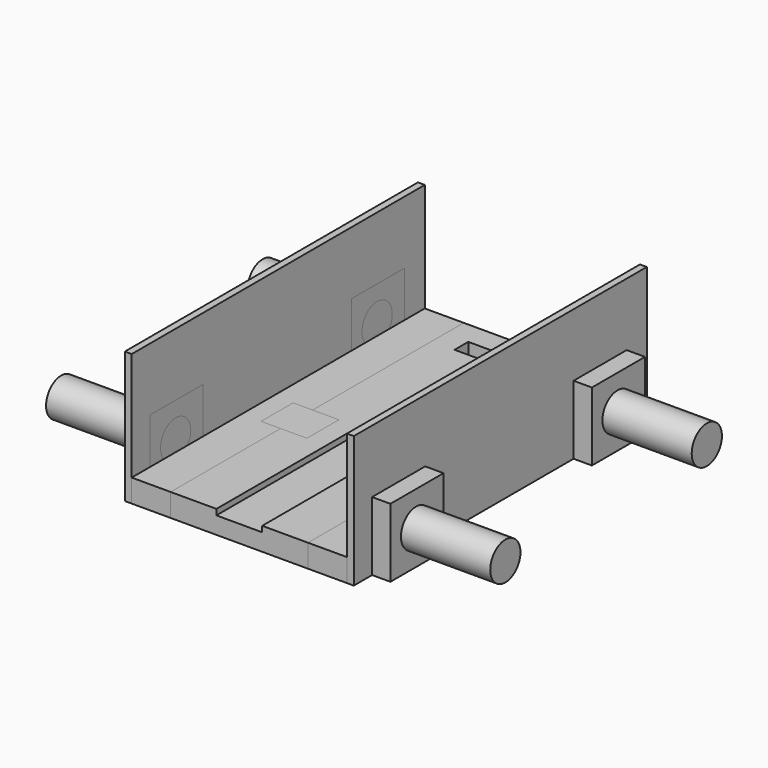
from build123d import *

# Parameters (mm, degrees)
BOX004_W          = 8
BOX004_H          = 1.5
BOX004_DEPTH      = 1.5
BOX001_W          = 4
BOX001_H          = 30
BOX001_DEPTH      = 0.5
BOX_W             = 13.4
BOX_H             = 32
BOX_DEPTH         = 2
BOX005_W          = 4
BOX005_H          = 32
BOX005_DEPTH      = 2
BOX006_W          = 4
BOX006_H          = 32
BOX006_DEPTH      = 2
BOX003_W          = 4
BOX003_H          = 3.5
BOX003_DEPTH      = 1.5
BOX002_W          = 4
BOX002_H          = 3.5
BOX002_DEPTH      = 1.5
BOX007_W          = 0.6
BOX007_H          = 32
BOX007_DEPTH      = 11.5
BOX008_W          = 0.6
BOX008_H          = 32
BOX008_DEPTH      = 11.5
BOX009_W          = 2.2
BOX009_H          = 5.8
BOX009_DEPTH      = 6
BOX010_W          = 2.2
BOX010_H          = 5.8
BOX010_DEPTH      = 6
BOX011_W          = 2.2
BOX011_H          = 5.8
BOX011_DEPTH      = 6
BOX012_W          = 2.2
BOX012_H          = 5.8
BOX012_DEPTH      = 6
CYLINDER_R        = 1.65
CYLINDER_DEPTH    = 10
CYLINDER001_R     = 1.65
CYLINDER001_DEPTH = 10
CYLINDER002_R     = 1.65
CYLINDER002_DEPTH = 10
CYLINDER003_R     = 1.65
CYLINDER003_DEPTH = 10


with BuildPart() as cube004:
    # Box004 → Box004 (new body)
    with BuildSketch(Plane(origin=(-4, 28.5, 0.5), x_dir=(1, 0, 0), z_dir=(0, 0, 1))):
        with Locations((4, 0.75)):
            Rectangle(BOX004_W, BOX004_H)
    extrude(amount=BOX004_DEPTH)


with BuildPart() as cube001:
    # Box001 → Box001 (new body)
    with BuildSketch(Plane(origin=(-2, 0, 1.5), x_dir=(1, 0, 0), z_dir=(0, 0, 1))):
        with Locations((2, 15)):
            Rectangle(BOX001_W, BOX001_H)
    extrude(amount=BOX001_DEPTH)


with BuildPart() as cut001:
    # Box → Box (new body)
    with BuildSketch(Plane(origin=(-6.7, 0, 0), x_dir=(1, 0, 0), z_dir=(0, 0, 1))):
        with Locations((6.7, 16)):
            Rectangle(BOX_W, BOX_H)
    extrude(amount=BOX_DEPTH)

    # Cut: cut Cube001
    add(cube001.part, mode=Mode.SUBTRACT)

    # Cut001: cut Cube004
    add(cube004.part, mode=Mode.SUBTRACT)


with BuildPart() as cube005:
    # Box005 → Box005 (new body)
    with BuildSketch(Plane(origin=(-10, 0, 0), x_dir=(1, 0, 0), z_dir=(0, 0, 1))):
        with Locations((2, 16)):
            Rectangle(BOX005_W, BOX005_H)
    extrude(amount=BOX005_DEPTH)


with BuildPart() as cube006:
    # Box006 → Box006 (new body)
    with BuildSketch(Plane(origin=(6, 0, 0), x_dir=(1, 0, 0), z_dir=(0, 0, 1))):
        with Locations((2, 16)):
            Rectangle(BOX006_W, BOX006_H)
    extrude(amount=BOX006_DEPTH)


with BuildPart() as box003:
    # Box003 → Box003 (new body)
    with BuildSketch(Plane(origin=(3.7, 12, 0.5), x_dir=(1, 0, 0), z_dir=(0, 0, 1))):
        with Locations((2, 1.75)):
            Rectangle(BOX003_W, BOX003_H)
    extrude(amount=BOX003_DEPTH)


with BuildPart() as stopper_cut:
    # Box002 → Box002 (new body)
    with BuildSketch(Plane(origin=(-7.7, 12, 0.5), x_dir=(1, 0, 0), z_dir=(0, 0, 1))):
        with Locations((2, 1.75)):
            Rectangle(BOX002_W, BOX002_H)
    extrude(amount=BOX002_DEPTH)

    # Fusion001: union Box003
    add(box003.part)


with BuildPart() as cube007:
    # Box007 → Box007 (new body)
    with BuildSketch(Plane(origin=(-10, 0, 0), x_dir=(1, 0, 0), z_dir=(0, 0, 1))):
        with Locations((0.3, 16)):
            Rectangle(BOX007_W, BOX007_H)
    extrude(amount=BOX007_DEPTH)


with BuildPart() as cube008:
    # Box008 → Box008 (new body)
    with BuildSketch(Plane(origin=(9.4, 0, 0), x_dir=(1, 0, 0), z_dir=(0, 0, 1))):
        with Locations((0.3, 16)):
            Rectangle(BOX008_W, BOX008_H)
    extrude(amount=BOX008_DEPTH)


with BuildPart() as cube009:
    # Box009 → Box009 (new body)
    with BuildSketch(Plane(origin=(-11.6, 2, 0), x_dir=(1, 0, 0), z_dir=(0, 0, 1))):
        with Locations((1.1, 2.9)):
            Rectangle(BOX009_W, BOX009_H)
    extrude(amount=BOX009_DEPTH)


with BuildPart() as cube010:
    # Box010 → Box010 (new body)
    with BuildSketch(Plane(origin=(9.4, 2, 0), x_dir=(1, 0, 0), z_dir=(0, 0, 1))):
        with Locations((1.1, 2.9)):
            Rectangle(BOX010_W, BOX010_H)
    extrude(amount=BOX010_DEPTH)


with BuildPart() as cube011:
    # Box011 → Box011 (new body)
    with BuildSketch(Plane(origin=(-11.6, 24, 0), x_dir=(1, 0, 0), z_dir=(0, 0, 1))):
        with Locations((1.1, 2.9)):
            Rectangle(BOX011_W, BOX011_H)
    extrude(amount=BOX011_DEPTH)


with BuildPart() as cube012:
    # Box012 → Box012 (new body)
    with BuildSketch(Plane(origin=(9.4, 24, 0), x_dir=(1, 0, 0), z_dir=(0, 0, 1))):
        with Locations((1.1, 2.9)):
            Rectangle(BOX012_W, BOX012_H)
    extrude(amount=BOX012_DEPTH)


with BuildPart() as cylinder:
    # Cylinder → Cylinder (new body)
    with BuildSketch(Plane(origin=(-9.4, 4.8, 3), x_dir=(0, 0, 1), z_dir=(-1, 0, 0))):
        Circle(CYLINDER_R)
    extrude(amount=CYLINDER_DEPTH)


with BuildPart() as cylinder001:
    # Cylinder001 → Cylinder001 (new body)
    with BuildSketch(Plane(origin=(19.4, 26.8, 3), x_dir=(0, 0, 1), z_dir=(-1, 0, 0))):
        Circle(CYLINDER001_R)
    extrude(amount=CYLINDER001_DEPTH)


with BuildPart() as cylinder002:
    # Cylinder002 → Cylinder002 (new body)
    with BuildSketch(Plane(origin=(-9.4, 26.8, 3), x_dir=(0, 0, 1), z_dir=(-1, 0, 0))):
        Circle(CYLINDER002_R)
    extrude(amount=CYLINDER002_DEPTH)


with BuildPart() as cylinder003:
    # Cylinder003 → Cylinder003 (new body)
    with BuildSketch(Plane(origin=(19.4, 4.8, 3), x_dir=(0, 0, 1), z_dir=(-1, 0, 0))):
        Circle(CYLINDER003_R)
    extrude(amount=CYLINDER003_DEPTH)


solid = Compound([cut001.part, cube005.part, cube006.part, stopper_cut.part, cube007.part, cube008.part, cube009.part, cube010.part, cube011.part, cube012.part, cylinder.part, cylinder001.part, cylinder002.part, cylinder003.part])
